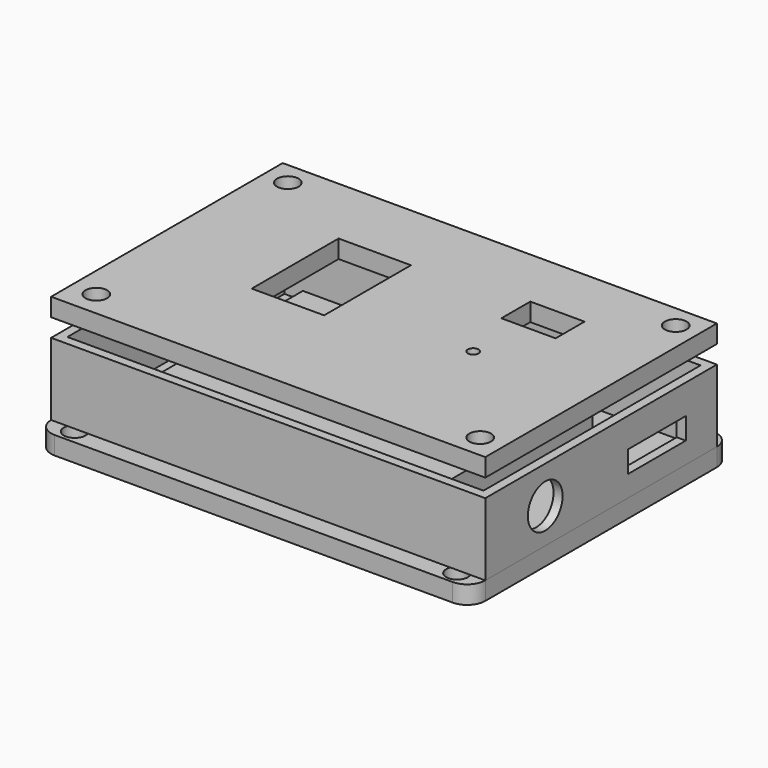
from build123d import *

# Parameters (mm, degrees)
SKETCH_W        = 80
SKETCH_H        = 50
PAD_DEPTH       = 9
SKETCH001_W     = 120
SKETCH001_H     = 90
PAD001_DEPTH    = 5
FILLET_R        = 5
FILLET001_R     = 5
FILLET002_R     = 5
FILLET003_R     = 5
SKETCH003_R     = 3
POCKET_DEPTH    = 5
SKETCH002_W     = 120
SKETCH002_H     = 80
SKETCH002_W_2   = 115
SKETCH002_H_2   = 75
PAD002_DEPTH    = 20
SKETCH004_R     = 6
SKETCH004_W     = 20
SKETCH004_H     = 6
POCKET001_DEPTH = 5
SKETCH005_W     = 120
SKETCH005_H     = 80
PAD003_DEPTH    = 5
SKETCH006_R     = 3
SKETCH006_R_2   = 1.5
SKETCH006_W     = 15
SKETCH006_H     = 10
SKETCH006_W_2   = 20
SKETCH006_H_2   = 30
POCKET002_DEPTH = 5


with BuildPart() as body:
    # Sketch → Pad (new body)
    with BuildSketch(Plane.XY):
        with Locations((-4.484091, 2.566826)):
            Rectangle(SKETCH_W, SKETCH_H)
    extrude(amount=PAD_DEPTH)


with BuildPart() as body_1:
    # Body placement: moved
    add(body.part.moved(Location((0, 0, 5))))


with BuildPart() as body2:
    # Sketch001 → Pad001 (new body)
    with BuildSketch(Plane.XY):
        Rectangle(SKETCH001_W, SKETCH001_H)
    extrude(amount=PAD001_DEPTH)

    # Fillet
    fillet_edges = [body2.edges().sort_by_distance(p)[0] for p in [
        (60, -45, 2.5),
    ]]
    fillet(fillet_edges, radius=FILLET_R)

    # Fillet001
    fillet001_edges = [body2.edges().sort_by_distance(p)[0] for p in [
        (60, 45, 2.5),
    ]]
    fillet(fillet001_edges, radius=FILLET001_R)

    # Fillet002
    fillet002_edges = [body2.edges().sort_by_distance(p)[0] for p in [
        (-60, 45, 2.5),
    ]]
    fillet(fillet002_edges, radius=FILLET002_R)

    # Fillet003
    fillet003_edges = [body2.edges().sort_by_distance(p)[0] for p in [
        (-60, -45, 2.5),
    ]]
    fillet(fillet003_edges, radius=FILLET003_R)

    # Sketch003 (on Face10 of Fillet003) → Pocket (cut)
    with BuildSketch(Plane.XY.offset(5)):
        with Locations((-52.700405, 41.346233)):
            Circle(SKETCH003_R)
        with Locations((-52.660035, -41.031767)):
            Circle(SKETCH003_R)
        with Locations((53.130526, -41.178823)):
            Circle(SKETCH003_R)
        with Locations((53.405683, 41.407684)):
            Circle(SKETCH003_R)
    extrude(amount=-POCKET_DEPTH, mode=Mode.SUBTRACT)


with BuildPart() as body3:
    # Sketch002 → Pad002 (new body)
    with BuildSketch(Plane.XY):
        Rectangle(SKETCH002_W, SKETCH002_H)
        Rectangle(SKETCH002_W_2, SKETCH002_H_2, mode=Mode.SUBTRACT)
    extrude(amount=PAD002_DEPTH)

    # Sketch004 (on Face2 of Pad002) → Pocket001 (cut)
    with BuildSketch(Plane.YZ.offset(60)):
        with Locations((-19.299583, 9.680263)):
            Circle(SKETCH004_R)
        with Locations((19.262205, 8.848557)):
            Rectangle(SKETCH004_W, SKETCH004_H)
    extrude(amount=-POCKET001_DEPTH, mode=Mode.SUBTRACT)


with BuildPart() as body3_1:
    # Body002 placement: moved
    add(body3.part.moved(Location((0, 0, 5))))


with BuildPart() as body4:
    # Sketch005 → Pad003 (new body)
    with BuildSketch(Plane.XY):
        Rectangle(SKETCH005_W, SKETCH005_H)
    extrude(amount=PAD003_DEPTH)

    # Sketch006 (on Face6 of Pad003) → Pocket002 (cut)
    with BuildSketch(Plane.XY.offset(5)):
        with Locations((53.4359, -33.569649)):
            Circle(SKETCH006_R)
        with Locations((-53.096584, -33.000046)):
            Circle(SKETCH006_R)
        with Locations((-53.414837, 33.534538)):
            Circle(SKETCH006_R)
        with Locations((53.674595, 33.693661)):
            Circle(SKETCH006_R)
        with Locations((27.101147, -3.063635)):
            Circle(SKETCH006_R_2)
        with Locations((29.671573, 17.828427)):
            Rectangle(SKETCH006_W, SKETCH006_H)
        with Locations((-18.556229, 5)):
            Rectangle(SKETCH006_W_2, SKETCH006_H_2)
    extrude(amount=-POCKET002_DEPTH, mode=Mode.SUBTRACT)


with BuildPart() as body4_1:
    # Body003 placement: moved
    add(body4.part.moved(Location((0, 0, 30))))


solid = Compound([body_1.part, body2.part, body3_1.part, body4_1.part])
